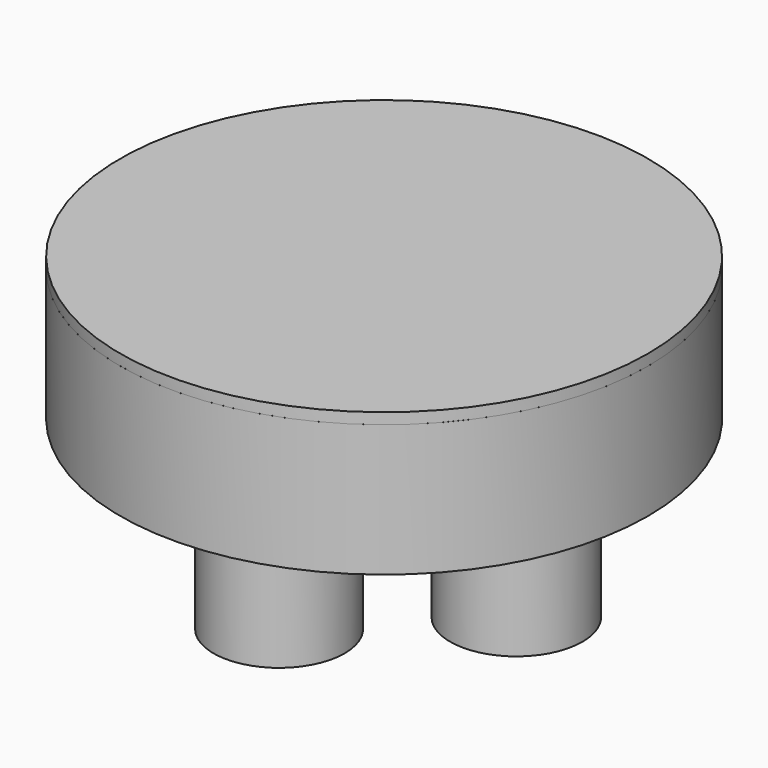
from build123d import *

# Parameters (mm, degrees)
F0_R     = 152.4
F1_DEPTH = 76.2
F2_R     = 139.735673
F3_DEPTH = 63.5
F4_R     = 152.391644
F5_DEPTH = 6.35
F6_R     = 38.220257
F6_R_2   = 37.876034
F6_R_3   = 38.05277
F6_R_4   = 38.601519
F7_DEPTH = 76.2


with BuildPart() as f1:
    # F0 (on Top) → F1 (new body)
    with BuildSketch(Plane.XY):
        Circle(F0_R)
    extrude(amount=F1_DEPTH)

    # F2 (on face) → F3 (cut)
    with BuildSketch(Plane.XY.offset(76.2)):
        Circle(F2_R)
    extrude(amount=-F3_DEPTH, mode=Mode.SUBTRACT)

    # F6 (on face) → F7 (join)
    with BuildSketch(Plane(origin=(0, 0, 0), x_dir=(1, 0, 0), z_dir=(0, 0, -1))):
        with Locations((76.326996, 0)):
            Circle(F6_R)
        with Locations((0, 75.819001)):
            Circle(F6_R_2)
        with Locations((-75.565003, 0)):
            Circle(F6_R_3)
        with Locations((0, -76.581001)):
            Circle(F6_R_4)
    extrude(amount=F7_DEPTH)


with BuildPart() as f5:
    # F4 (on face) → F5 (new body)
    with BuildSketch(Plane.XY.offset(76.2)):
        Circle(F4_R)
    extrude(amount=F5_DEPTH)


solid = Compound([f1.part, f5.part])
